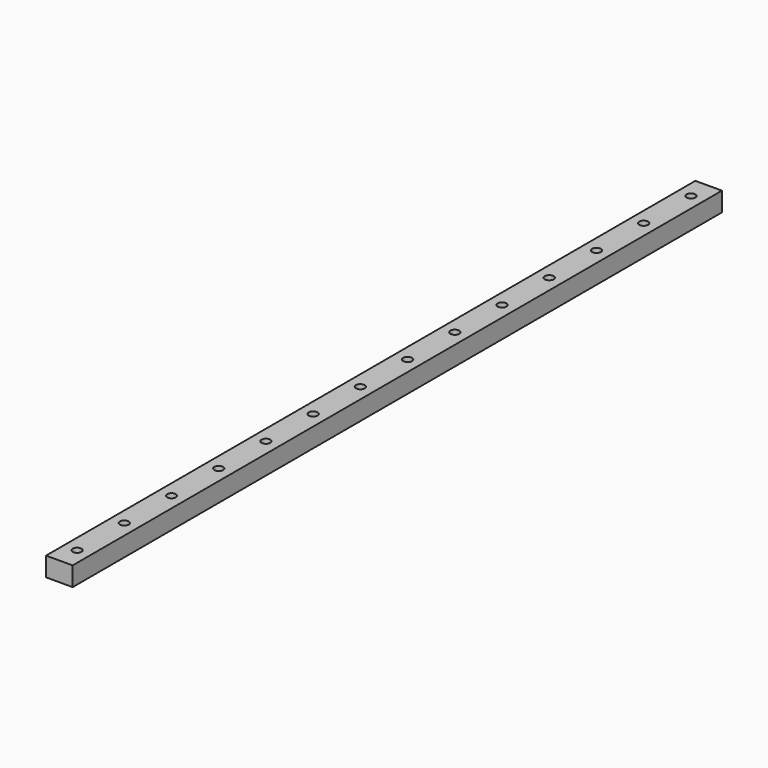
from build123d import *

# Parameters (mm, degrees)
SKETCH036_W            = 9
SKETCH036_H            = 275
PAD014_DEPTH           = 6.5
SKETCH037_R            = 1.5
POCKET024_DEPTH        = 6.5
LINEARPATTERN006_COUNT = 14
LINEARPATTERN006_PITCH = 20


with BuildPart() as part:
    # Sketch036 → Pad014 (new body)
    with BuildSketch(Plane.XY):
        with Locations((-4.5, 137.5)):
            Rectangle(SKETCH036_W, SKETCH036_H)
    extrude(amount=PAD014_DEPTH)

    # Sketch037 (on Face6 of Pad014) → Pocket024 (cut)
    with BuildSketch(Plane.XY.offset(6.5)):
        with Locations((-4.5, 7.5)):
            Circle(SKETCH037_R)
    pocket024 = extrude(amount=-POCKET024_DEPTH, mode=Mode.SUBTRACT)

    # LinearPattern006: Pocket024 ×14
    with Locations(*[(0, i * LINEARPATTERN006_PITCH, 0) for i in range(1, LINEARPATTERN006_COUNT)]):
        add(pocket024, mode=Mode.SUBTRACT)


solid = part.part
